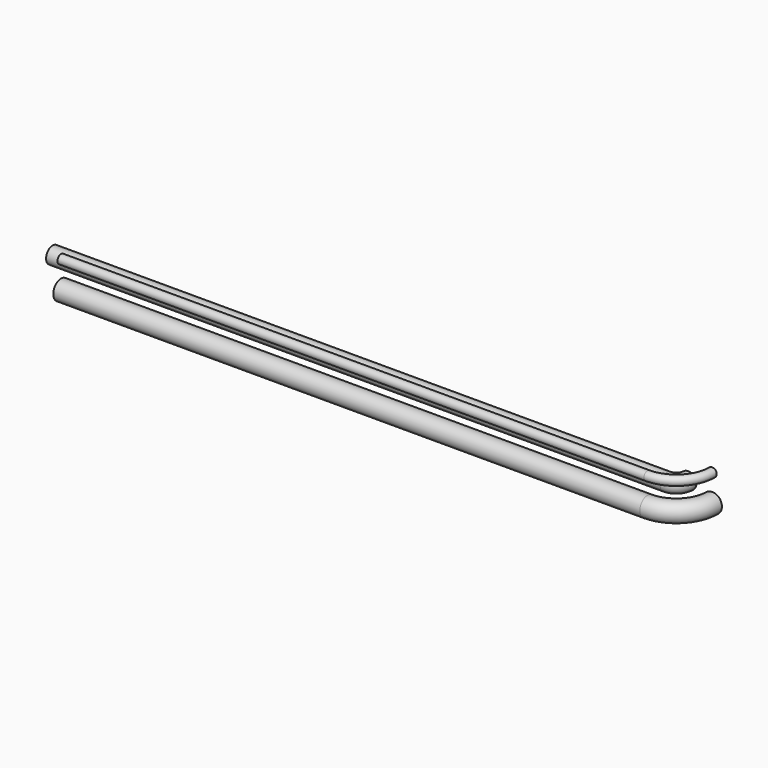
from build123d import *

# Parameters (mm, degrees)
F0_R     = 20.6375
F0_R_2   = 9.525
F0_R_3   = 17.4625
F3_DEPTH = 58.42


with BuildPart() as f2:
    # F2: sweep along a path in F1
    with BuildLine(Plane.XY) as f2_path:
        Line((0, 0), (1244.6, 0))
        ThreePointArc((1244.6, 0), (1298.4815367264, 22.3184632736), (1320.8, 76.2))
    # F0 (on Right) → F2 (sweep)
    with BuildSketch(Plane.YZ):
        Circle(F0_R)
        with Locations((0, 57.15)):
            Circle(F0_R_2)
        with Locations((50.8, 25.4)):
            Circle(F0_R_3)
    sweep(path=f2_path.line)

    # F3 (add): a face of the model
    f3_faces = [f2.faces().sort_by_distance(p)[0] for p in [
        (0, 50.8, 25.4),
    ]]
    extrude(f3_faces, amount=F3_DEPTH)


solid = f2.part
